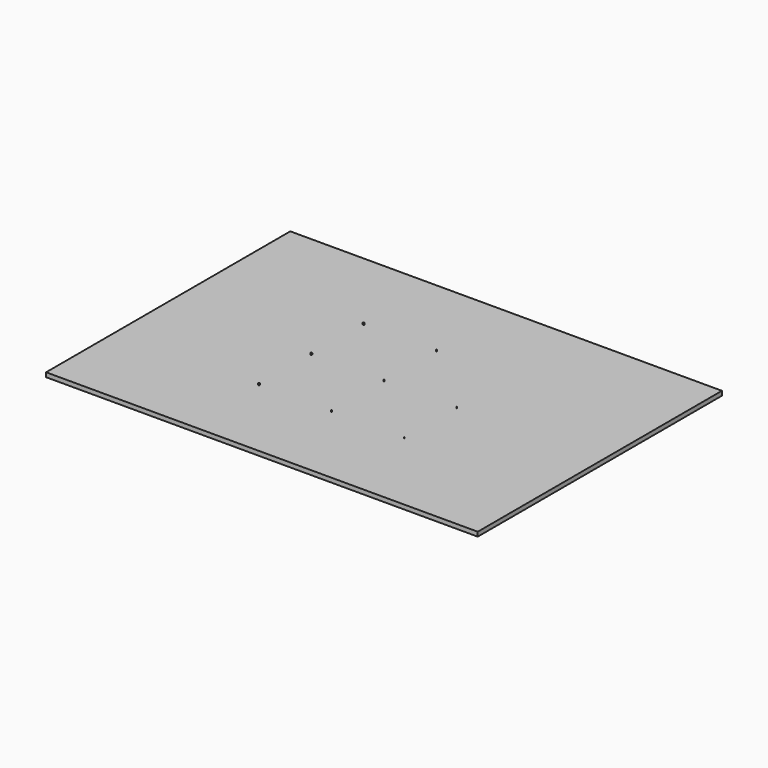
from build123d import *

# Parameters (mm, degrees)
F0_W     = 297
F0_H     = 210
F1_DEPTH = 3
F2_R     = 0.1
F3_DEPTH = 1
F4_R     = 0.25
F5_DEPTH = 1
F6_R     = 0.5
F7_DEPTH = 1


with BuildPart() as f1:
    # F0 (on Top) → F1 (new body)
    with BuildSketch(Plane.XY):
        Rectangle(F0_W, F0_H)
    extrude(amount=F1_DEPTH)

    # F2 (on face) → F3 (join)
    with BuildSketch(Plane.XY.offset(3)):
        with Locations((50, 45)):
            Circle(F2_R)
        with Locations((50, 0)):
            Circle(F2_R)
        with Locations((50, -45)):
            Circle(F2_R)
    extrude(amount=F3_DEPTH)

    # F4 (on face) → F5 (join)
    with BuildSketch(Plane.XY.offset(3)):
        with Locations((0, 45)):
            Circle(F4_R)
        Circle(F4_R)
        with Locations((0, -45)):
            Circle(F4_R)
    extrude(amount=F5_DEPTH)

    # F6 (on face) → F7 (join)
    with BuildSketch(Plane.XY.offset(3)):
        with Locations((-50, 45)):
            Circle(F6_R)
        with Locations((-50, 0)):
            Circle(F6_R)
        with Locations((-50, -45)):
            Circle(F6_R)
    extrude(amount=F7_DEPTH)


solid = f1.part
